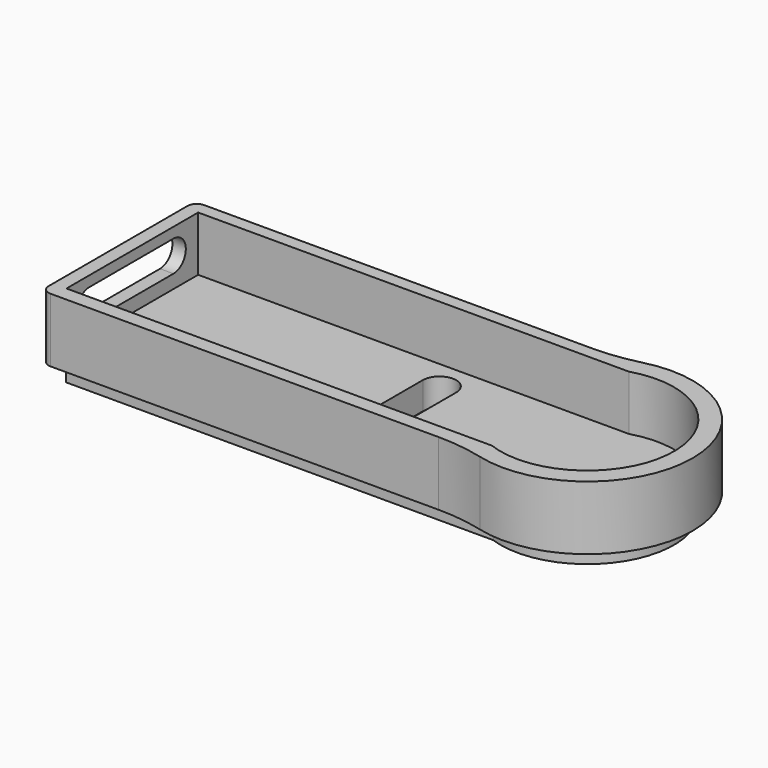
from build123d import *

# Parameters (mm, degrees)
PAD_DEPTH       = 7
PAD001_DEPTH    = 2
FILLET_R        = 20
FILLET001_R     = 20
FILLET002_R     = 1
FILLET003_R     = 1
POCKET_DEPTH    = 6
POCKET001_DEPTH = 5
POCKET002_DEPTH = 5


with BuildPart() as part:
    # Sketch003 → Pad (new body)
    with BuildSketch(Plane.XY.offset(69)):
        with BuildLine():
            Line((0.013913, 21), (46.663841, 21))
            ThreePointArc((46.663841, 0), (62.854257, 10.5), (46.663841, 21))
            Line((46.663841, 0), (0.013913, 0))
            Line((0.013913, 0), (0.013913, 21))
        make_face()
    extrude(amount=PAD_DEPTH)

    # Sketch → Pad001 (new body)
    with BuildSketch(Plane(origin=(0, 0, 69), x_dir=(1, 0, 0), z_dir=(0, 0, -1))):
        with BuildLine():
            Line((1.511721, -19.526379), (48.404155, -19.526379))
            ThreePointArc((48.404155, -19.526379), (60.840174, -10.38315), (48.198543, -1.526379))
            Line((1.511721, -1.526379), (48.198543, -1.526379))
            Line((1.511721, -1.526379), (1.511721, -19.526379))
        make_face()
    extrude(amount=PAD001_DEPTH)

    # Fillet
    fillet_edges = [part.edges().sort_by_distance(p)[0] for p in [
        (46.663841, 21, 72.5),
    ]]
    fillet(fillet_edges, radius=FILLET_R)

    # Fillet001
    fillet001_edges = [part.edges().sort_by_distance(p)[0] for p in [
        (46.663841, 0, 72.5),
    ]]
    fillet(fillet001_edges, radius=FILLET001_R)

    # Fillet002
    fillet002_edges = [part.edges().sort_by_distance(p)[0] for p in [
        (0.013913, 0, 72.5),
    ]]
    fillet(fillet002_edges, radius=FILLET002_R)

    # Fillet003
    fillet003_edges = [part.edges().sort_by_distance(p)[0] for p in [
        (0.013913, 21, 72.5),
    ]]
    fillet(fillet003_edges, radius=FILLET003_R)

    # Sketch004 → Pocket (cut)
    with BuildSketch(Plane.XY.offset(76)):
        with BuildLine():
            Line((1.482056, 1.60733), (47.999464, 1.60733))
            ThreePointArc((47.999464, 1.60733), (60.81663, 10.193947), (48.593783, 19.60733))
            Line((1.482056, 19.60733), (48.593783, 19.60733))
            Line((1.482056, 19.60733), (1.482056, 1.60733))
        make_face()
    extrude(amount=-POCKET_DEPTH, mode=Mode.SUBTRACT)

    # Sketch005 → Pocket001 (cut)
    with BuildSketch(Plane(origin=(0.013913, 0, 69), x_dir=(0, -1, 0), z_dir=(-1, 0, 0))):
        with BuildLine():
            ThreePointArc((-16.232645, 5.858135), (-17.922069, 4.168711), (-16.232645, 2.479286))
            Line((-16.232645, 2.479286), (-4.73362, 2.479286))
            ThreePointArc((-4.73362, 2.479286), (-3.044195, 4.168711), (-4.73362, 5.858135))
            Line((-16.232645, 5.858135), (-4.73362, 5.858135))
        make_face()
    extrude(amount=-POCKET001_DEPTH, mode=Mode.SUBTRACT)

    # Sketch006 → Pocket002 (cut)
    with BuildSketch(Plane.XY.offset(70)):
        with BuildLine():
            ThreePointArc((32.291425, 16.37623), (30.46347, 18.204185), (28.635515, 16.37623))
            Line((28.635515, 16.37623), (28.635515, 4.934208))
            ThreePointArc((28.635515, 4.934208), (30.46347, 3.106253), (32.291425, 4.934208))
            Line((32.291425, 16.37623), (32.291425, 4.934208))
        make_face()
    extrude(amount=-POCKET002_DEPTH, mode=Mode.SUBTRACT)


solid = part.part
